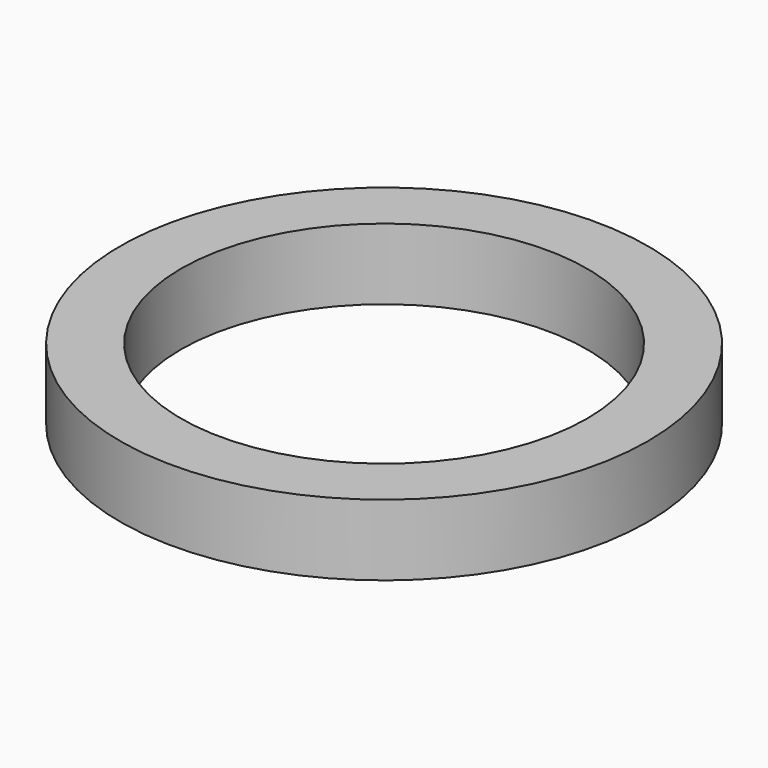
from build123d import *

# Parameters (mm, degrees)
SKETCH_R   = 26
SKETCH_R_2 = 20
PAD_DEPTH  = 7


with BuildPart() as part:
    # Sketch → Pad (new body)
    with BuildSketch(Plane.XY):
        Circle(SKETCH_R)
        Circle(SKETCH_R_2, mode=Mode.SUBTRACT)
    extrude(amount=PAD_DEPTH)


solid = part.part
